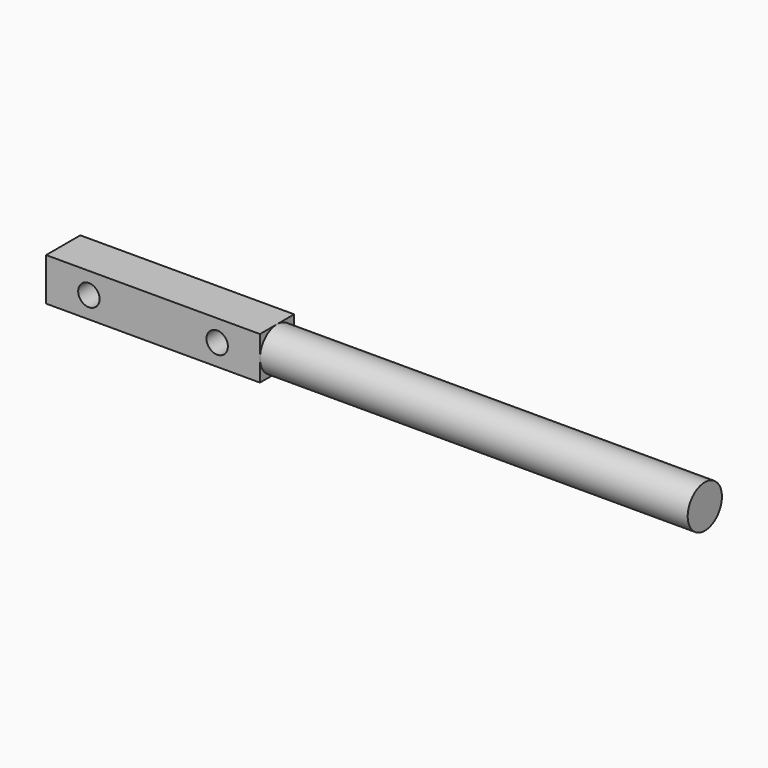
from build123d import *

# Parameters (mm, degrees)
F0_R     = 6.35
F1_DEPTH = 127
F2_W     = 12.7
F2_H     = 12.7
F3_DEPTH = 63.5
F4_R     = 3.175
F5_DEPTH = 12.701


with BuildPart() as f1:
    # F0 (on Right) → F1 (new body)
    with BuildSketch(Plane.YZ):
        Circle(F0_R)
    extrude(amount=F1_DEPTH)

    # F2 (on Right) → F3 (join)
    with BuildSketch(Plane.YZ):
        Rectangle(F2_W, F2_H)
    extrude(amount=-F3_DEPTH)

    # F4 (on face) → F5 (cut, through all)
    with BuildSketch(Plane.XZ.offset(6.35)):
        with Locations((-50.8, 0)):
            Circle(F4_R)
        with Locations((-12.7, 0)):
            Circle(F4_R)
    extrude(amount=-F5_DEPTH, mode=Mode.SUBTRACT)


solid = f1.part
